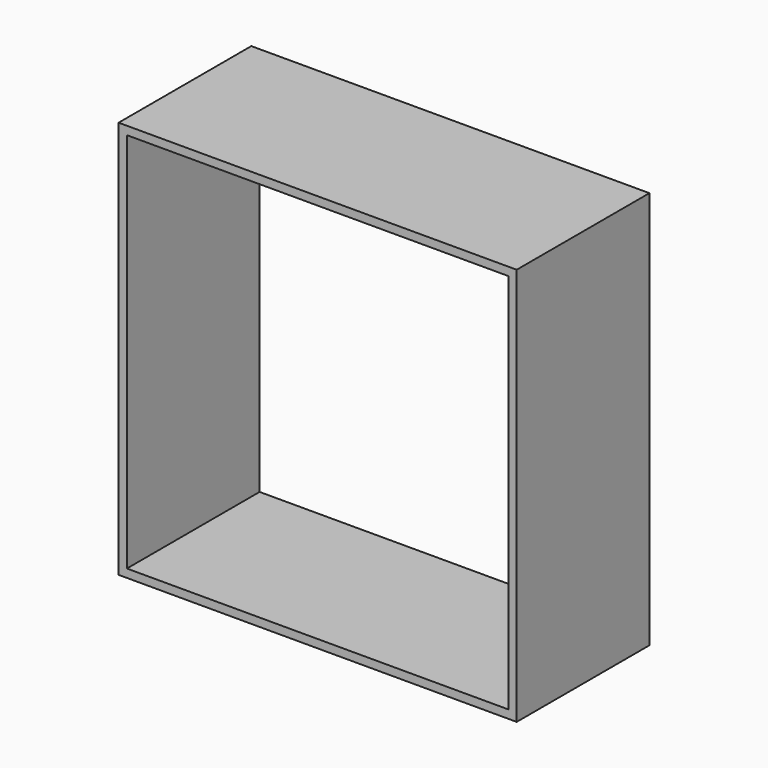
from build123d import *

# Parameters (mm, degrees)
F0_W     = 609.6
F0_H     = 609.6
F1_DEPTH = 254
F2_T     = -12.7


with BuildPart() as f1:
    # F0 (on Front) → F1 (new body)
    with BuildSketch(Plane.XZ):
        with Locations((304.8, 304.8)):
            Rectangle(F0_W, F0_H)
    extrude(amount=F1_DEPTH)

    # F2
    f2_openings = [f1.faces().sort_by_distance(p)[0] for p in [
        (304.8, -254, 304.8),
        (304.8, 0, 304.8),
    ]]
    offset(amount=F2_T, openings=f2_openings)


solid = f1.part
